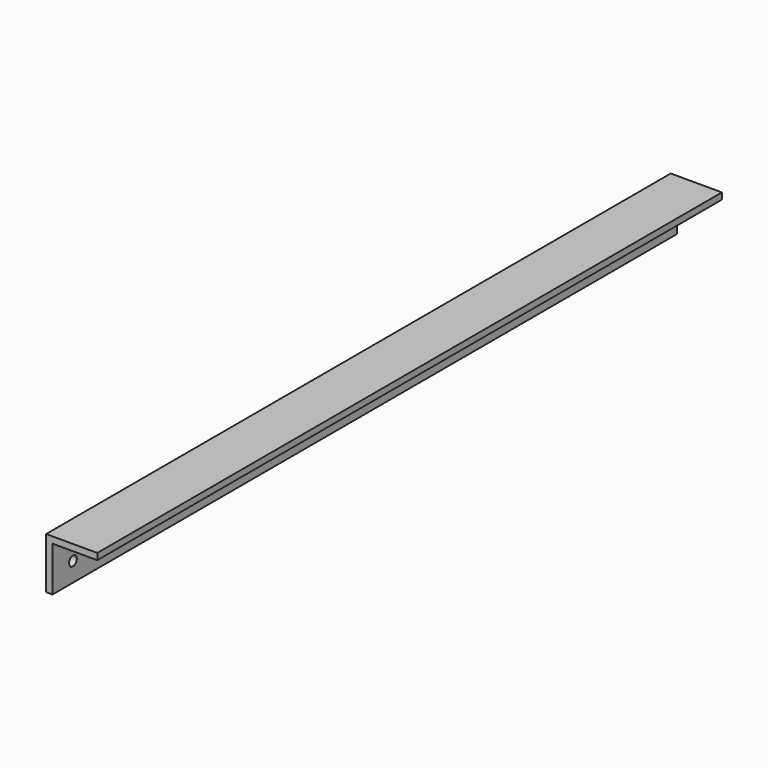
from build123d import *

# Parameters (mm, degrees)
F1_DEPTH = 387.35
F2_R     = 2.38125
F3_DEPTH = 3.175


with BuildPart() as f1:
    # F0 (on Front) → F1 (new body)
    with BuildSketch(Plane.XZ):
        Polygon((0, 25.4), (0, 0), (3.175, 0), (3.175, 22.225), (25.4, 22.225), (25.4, 25.4), align=None)
    extrude(amount=-F1_DEPTH)

    # F2 (on face) → F3 (cut)
    with BuildSketch(Plane(origin=(0, 0, 0), x_dir=(0, -1, 0), z_dir=(-1, 0, 0))):
        with Locations((-12.7, 9.525)):
            Circle(F2_R)
        with Locations((-374.65, 9.525)):
            Circle(F2_R)
    extrude(amount=-F3_DEPTH, mode=Mode.SUBTRACT)


solid = f1.part
